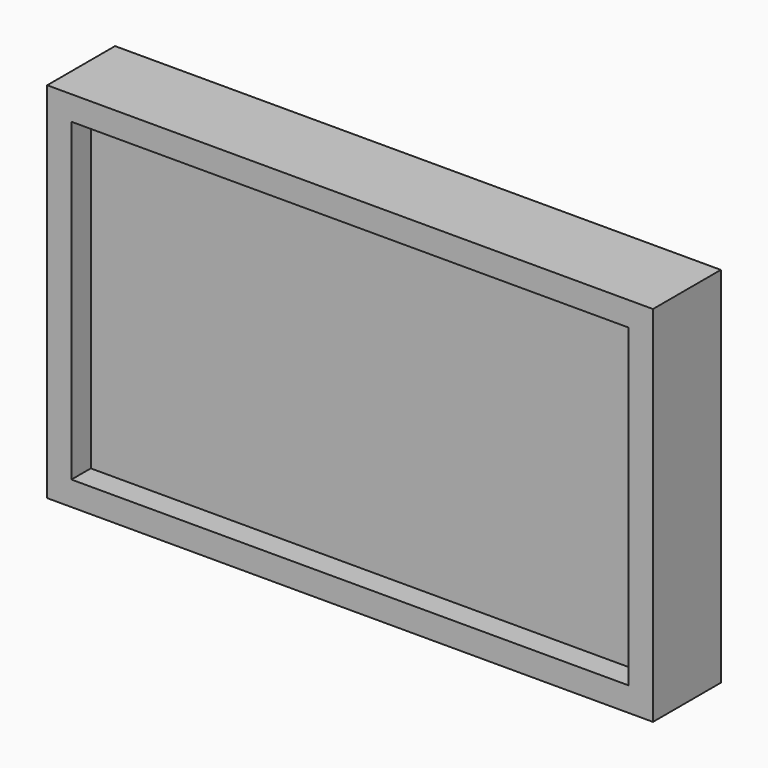
from build123d import *

# Parameters (mm, degrees)
F0_W     = 50
F0_H     = 30
F0_W_2   = 46
F0_H_2   = 26
F0_R     = 8
F0_R_2   = 5
F1_DEPTH = 5
F2_DEPTH = 7
F3_DEPTH = 3.0000000261


with BuildPart() as f1:
    # F0 (on Front) → F1 (new body)
    with BuildSketch(Plane.XZ):
        Rectangle(F0_W, F0_H)
        Rectangle(F0_W_2, F0_H_2, mode=Mode.SUBTRACT)
        Rectangle(F0_W_2, F0_H_2)
        Circle(F0_R, mode=Mode.SUBTRACT)
        Circle(F0_R)
        Circle(F0_R_2, mode=Mode.SUBTRACT)
        Circle(F0_R_2)
    extrude(amount=F1_DEPTH)

    # F0 (on Front) → F2 (join)
    with BuildSketch(Plane.XZ):
        Rectangle(F0_W, F0_H)
        Rectangle(F0_W_2, F0_H_2, mode=Mode.SUBTRACT)
    extrude(amount=F2_DEPTH)

    # F0 (on Front) → F3 (cut)
    with BuildSketch(Plane.XZ):
        Circle(F0_R_2)
    extrude(amount=F3_DEPTH, mode=Mode.SUBTRACT)


solid = f1.part
